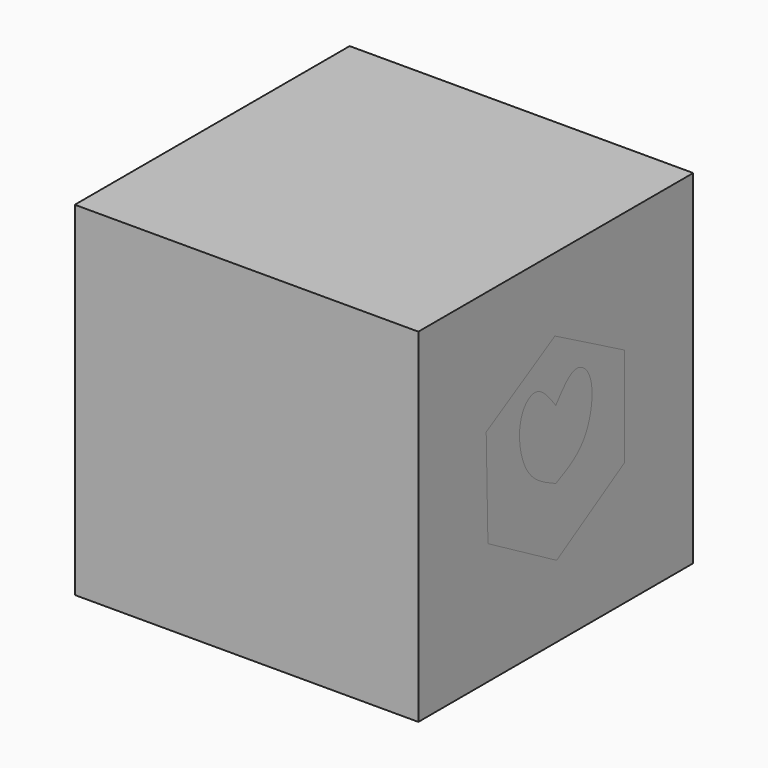
from build123d import *

# Parameters (mm, degrees)
F0_W     = 127
F0_H     = 127
F1_DEPTH = 127
F2_DEPTH = 127
F5_DEPTH = 18.542


with BuildPart() as f1:
    # F0 (on Right) → F1 (new body)
    with BuildSketch(Plane.YZ):
        Rectangle(F0_W, F0_H)
    extrude(amount=F1_DEPTH)


with BuildPart() as f2:
    # F0 (on Right) → F2 (new body)
    with BuildSketch(Plane.YZ):
        Rectangle(F0_W, F0_H)
    extrude(amount=F2_DEPTH)


with BuildPart() as f5:
    # F3 (on face) → F5 (new body)
    with BuildSketch(Plane.YZ.offset(127)):
        Polygon((31.75, -17.8710395744), (31.75, 18.7965432325), (-0.3982257365, 36.4318263574), (-32.1532839427, 18.0980349539), (-31.3517742635, -18.5607867829), (0.4032839427, -36.8945781864), align=None)
        with BuildLine():
            add(Edge.make_bspline(
                [(0, -11.739959009), (5.0322962281, -9.4274706057), (15.4928277067, -4.620548151), (18.5544414166, 16.9097815547), (8.5100486097, 24.5553381098), (3.0063934578, 17.5090848074), (0, 13.660040991)],
                knots=[0, 0, 0, 0, 0.2728764595, 0.567222728, 0.7635936985, 1, 1, 1, 1], degree=3))
            add(Edge.make_bspline(
                [(0, -11.739959009), (-5.0322962281, -9.4274706057), (-15.4928277067, -4.620548151), (-18.5544414166, 16.9097815547), (-8.5100486097, 24.5553381098), (-3.0063934578, 17.5090848074), (0, 13.660040991)],
                knots=[0, 0, 0, 0, 0.2728764595, 0.567222728, 0.7635936985, 1, 1, 1, 1], degree=3))
        make_face(mode=Mode.SUBTRACT)
    extrude(amount=-F5_DEPTH)


solid = Compound([f1.part, f2.part, f5.part])
